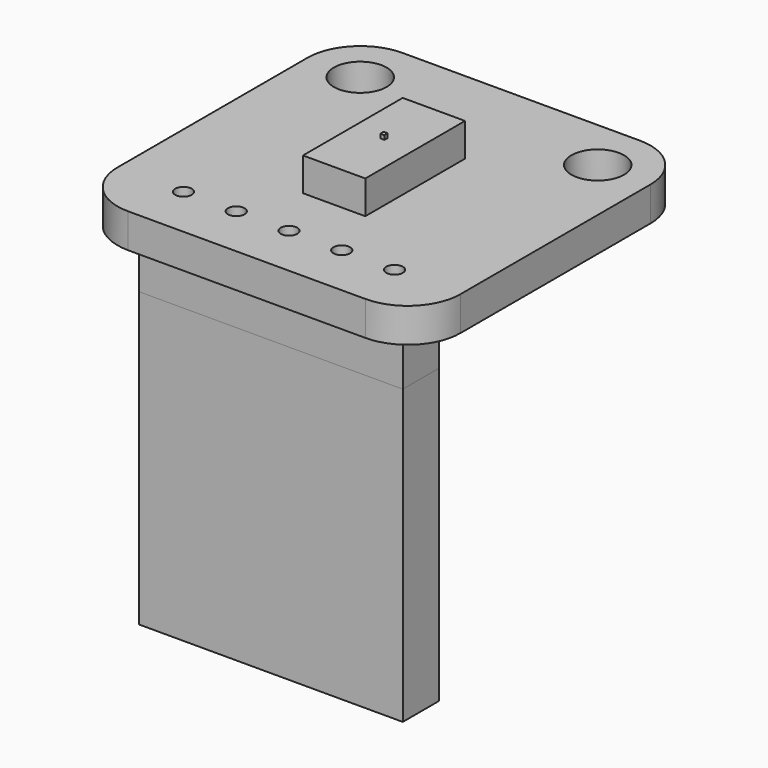
from build123d import *

# Parameters (mm, degrees)
PAD005_DEPTH            = 1.65
SKETCH010_R             = 1.27
POCKET003_DEPTH         = 1.651
SKETCH013_R             = 0.4
POCKET004_DEPTH         = 1.651
LINEARPATTERN004_COUNT  = 3
LINEARPATTERN004_PITCH  = 2.54
LINEARPATTERN005_COUNT  = 3
LINEARPATTERN005_PITCH  = 2.54
SKETCH011_W             = 3
SKETCH011_H             = 6
PAD006_DEPTH            = 1.6
SKETCH_W                = 0.2
SKETCH_H                = 0.2
PAD_DEPTH               = 1.8
SKETCH014_W             = 12.7
SKETCH014_H             = 2.18761
PAD007_DEPTH            = 2.54
SKETCH016_W             = 10.76
SKETCH016_H             = 0.6
PAD008_DEPTH            = 8.74
SKETCH017_W             = 1.94
SKETCH017_H             = 12.4
POCKET005_DEPTH         = 0.001
POCKET005_DEPTH_BACK    = -6.016
BODY013_PLACEMENT_ANGLE = 180
SKETCH018_W             = 12.7
SKETCH018_H             = 2.18761
PAD009_DEPTH            = 14.1


with BuildPart() as mainboard002:
    # Sketch009 → Pad005 (new body)
    with BuildSketch(Plane.XY):
        with BuildLine():
            Line((-5.715, 8.255), (5.715, 8.255))
            ThreePointArc((8.255, 5.715), (7.511051, 7.511051), (5.715, 8.255))
            Line((8.255, 5.715), (8.255, -5.715))
            ThreePointArc((5.715, -8.255), (7.511051, -7.511051), (8.255, -5.715))
            Line((5.715, -8.255), (-5.715, -8.255))
            ThreePointArc((-8.255, -5.715), (-7.511051, -7.511051), (-5.715, -8.255))
            Line((-8.255, -5.715), (-8.255, 5.715))
            ThreePointArc((-5.715, 8.255), (-7.511051, 7.511051), (-8.255, 5.715))
        make_face()
    extrude(amount=-PAD005_DEPTH)

    # Sketch010 → Pocket003 (cut, through all)
    with BuildSketch(Plane.XY):
        with Locations((-5.715, 5.715)):
            Circle(SKETCH010_R)
        with Locations((5.715, 5.715)):
            Circle(SKETCH010_R)
    extrude(amount=-POCKET003_DEPTH, mode=Mode.SUBTRACT)

    # Sketch013 → Pocket004 (cut, through all)
    with BuildSketch(Plane.XY):
        with Locations((0, -5.715)):
            Circle(SKETCH013_R)
    pocket004 = extrude(amount=-POCKET004_DEPTH, mode=Mode.SUBTRACT)

    # LinearPattern004: Pocket004 ×3
    with Locations(*[(i * LINEARPATTERN004_PITCH, 0, 0) for i in range(1, LINEARPATTERN004_COUNT)]):
        add(pocket004, mode=Mode.SUBTRACT)

    # LinearPattern005: Pocket004 ×3
    with Locations(*[(-i * LINEARPATTERN005_PITCH, 0, 0) for i in range(1, LINEARPATTERN005_COUNT)]):
        add(pocket004, mode=Mode.SUBTRACT)


with BuildPart() as lightsensor:
    # Sketch011 → Pad006 (new body)
    with BuildSketch(Plane.XY):
        Rectangle(SKETCH011_W, SKETCH011_H)
    extrude(amount=PAD006_DEPTH)

    # Sketch → Pad (join)
    with BuildSketch(Plane.XY):
        Rectangle(SKETCH_W, SKETCH_H)
    extrude(amount=PAD_DEPTH)


with BuildPart() as pinblock002:
    # Sketch014 → Pad007 (new body)
    with BuildSketch(Plane.XY):
        with Locations((0, -5.715)):
            Rectangle(SKETCH014_W, SKETCH014_H)
    extrude(amount=PAD007_DEPTH)


with BuildPart() as pinblock002_1:
    # Body012 placement: moved
    add(pinblock002.part.moved(Location((0, 0, -4.2))))


with BuildPart() as pins002:
    # Sketch016 → Pad008 (new body)
    with BuildSketch(Plane.XY):
        with Locations((0, -5.715)):
            Rectangle(SKETCH016_W, SKETCH016_H)
    extrude(amount=PAD008_DEPTH)

    # Sketch017 → Pocket005 (cut, two sides)
    with BuildSketch(Plane.XZ) as pocket005_sk:
        with Locations((-1.27, 8.44)):
            Rectangle(SKETCH017_W, SKETCH017_H)
        with Locations((1.27, 8.44)):
            Rectangle(SKETCH017_W, SKETCH017_H)
        with Locations((3.81, 8.44)):
            Rectangle(SKETCH017_W, SKETCH017_H)
        with Locations((-3.81, 8.44)):
            Rectangle(SKETCH017_W, SKETCH017_H)
    extrude(amount=-POCKET005_DEPTH, mode=Mode.SUBTRACT)
    extrude(pocket005_sk.sketch, amount=-POCKET005_DEPTH_BACK, mode=Mode.SUBTRACT)


with BuildPart() as pins002_1:
    # Body013 placement: moved
    add(pins002.part.moved(Location((0, -11.4, -1.7))).rotate(Axis((0, -11.4, -1.7), (1, 0, 0)), BODY013_PLACEMENT_ANGLE))


with BuildPart() as jumperheader002:
    # Sketch018 → Pad009 (new body)
    with BuildSketch(Plane.XY):
        with Locations((0, -5.715)):
            Rectangle(SKETCH018_W, SKETCH018_H)
    extrude(amount=-PAD009_DEPTH)


with BuildPart() as jumperheader002_1:
    # Body014 placement: moved
    add(jumperheader002.part.moved(Location((0, 0, -4.2))))


solid = Compound([mainboard002.part, lightsensor.part, pinblock002_1.part, pins002_1.part, jumperheader002_1.part])
